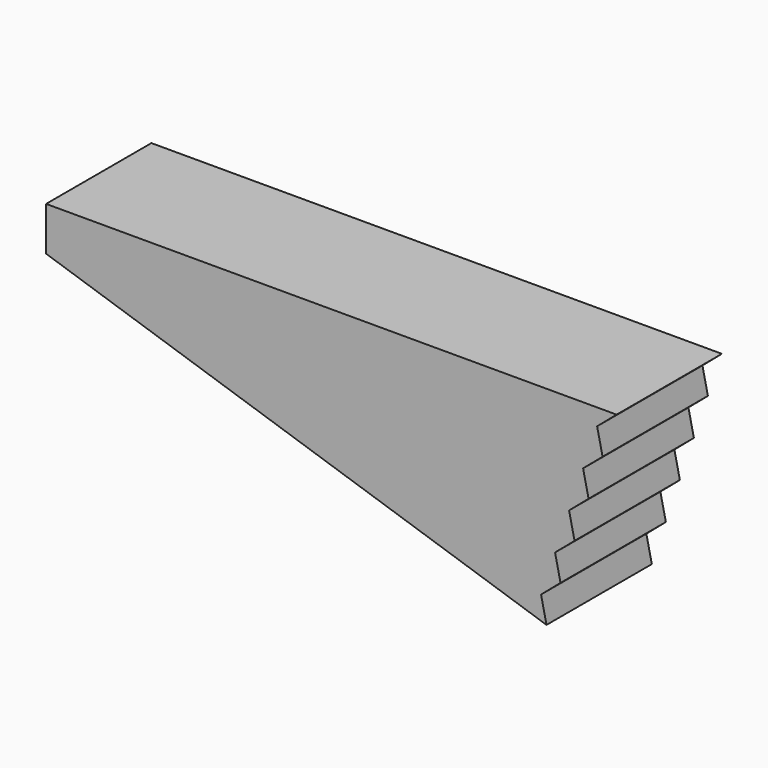
from build123d import *

# Parameters (mm, degrees)
PAD_DEPTH = 15


with BuildPart() as part:
    # Sketch → Pad (new body)
    with BuildSketch(Plane.XZ):
        Polygon((0, 0), (65, 0), (62.780042, -1.889917), (63.402929, -4.738076), (61.182971, -6.627993), (61.805858, -9.476152), (59.5859, -11.366069), (60.208787, -14.214228), (57.988828, -16.104145), (58.611716, -18.952304), (56.391757, -20.842221), (57.014645, -23.69038), (0, -5), align=None)
    extrude(amount=PAD_DEPTH)


solid = part.part
